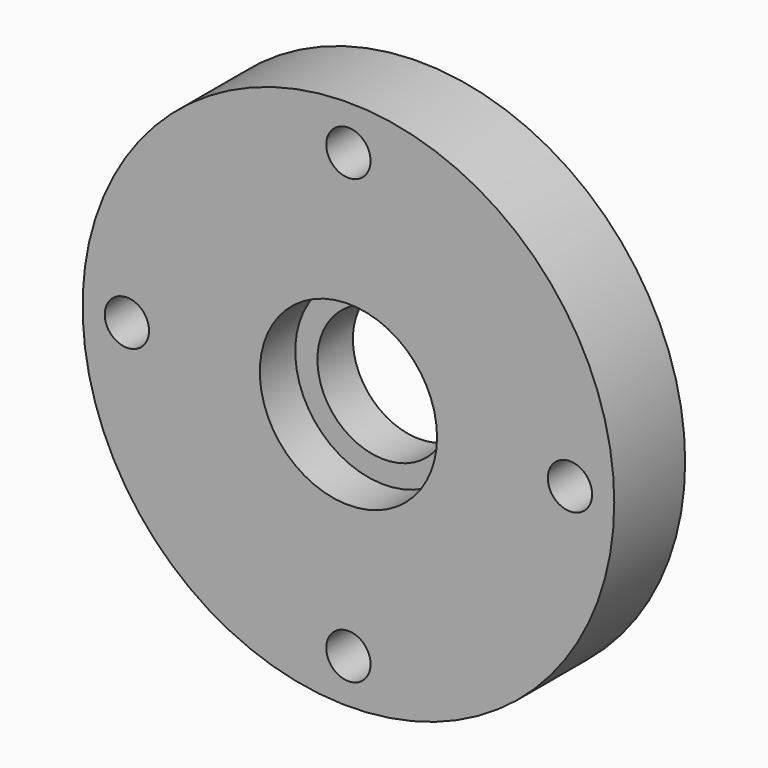
from build123d import *

# Parameters (mm, degrees)
F0_R           = 38.1
F0_R_2         = 9.525
F1_DEPTH       = 12.7
F2_R           = 12.7
F3_DEPTH       = 6.35
F5_D           = 3.175
F5_CBORE_D     = 6.35
F5_CBORE_DEPTH = 6.35


with BuildPart() as f1:
    # F0 (on Front) → F1 (new body)
    with BuildSketch(Plane.XZ):
        with Locations((-20.073514, 16.948864)):
            Circle(F0_R)
        with Locations((-20.073514, 16.948864)):
            Circle(F0_R_2, mode=Mode.SUBTRACT)
    extrude(amount=F1_DEPTH)

    # F2 (on face) → F3 (cut)
    with BuildSketch(Plane.XZ.offset(12.7)):
        with Locations((-20.073514, 16.948864)):
            Circle(F2_R)
    extrude(amount=-F3_DEPTH, mode=Mode.SUBTRACT)

    # F5 (through all)
    with Locations(Plane.XZ.offset(12.7)):
        with Locations((-20.073514, 48.698864), (-51.823514, 16.948864), (-20.073514, -14.801136), (11.676486, 16.948864)):
            CounterBoreHole(F5_D / 2, F5_CBORE_D / 2, F5_CBORE_DEPTH)


solid = f1.part
